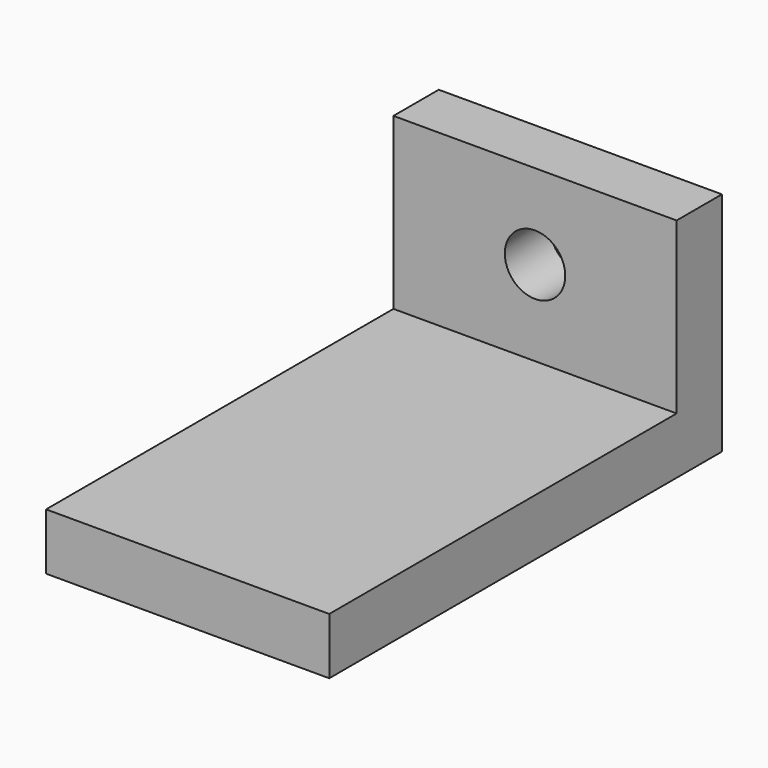
from build123d import *

# Parameters (mm, degrees)
F0_W     = 15
F0_H     = 23
F1_DEPTH = 3
F0_H_2   = 3
F2_DEPTH = 12
F4_D     = 3.2


with BuildPart() as f1:
    # F0 (on Top) → F1 (new body)
    with BuildSketch(Plane.XY):
        with Locations((7.5, 11.5)):
            Rectangle(F0_W, F0_H)
    extrude(amount=F1_DEPTH)

    # F0 (on Top) → F2 (join)
    with BuildSketch(Plane.XY):
        with Locations((7.5, 24.5)):
            Rectangle(F0_W, F0_H_2)
    extrude(amount=F2_DEPTH)

    # F4 (through all)
    with Locations(Plane.XZ.offset(-23)):
        with Locations((7.5, 7.5)):
            Hole(F4_D / 2)


solid = f1.part
